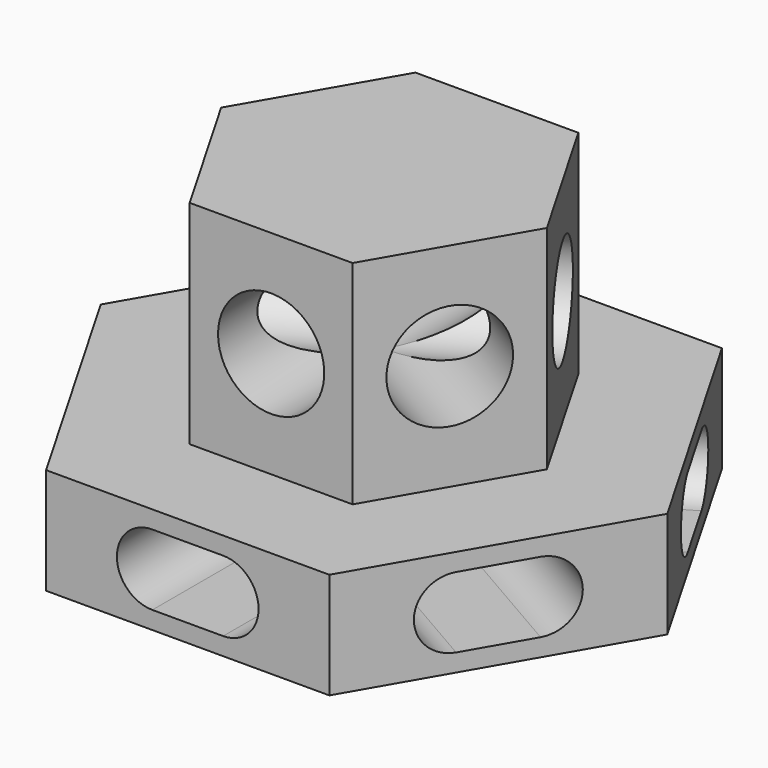
from build123d import *

# Parameters (mm, degrees)
F1_DEPTH  = 15
F4_DEPTH  = 80
F6_DEPTH  = 80
F7_DEPTH  = 80
F9_DEPTH  = 30
F11_D     = 15
F11_DEPTH = 80
F11_TIP   = 4.5064546427
F14_D     = 15
F14_DEPTH = 80
F14_TIP   = 4.5064546427
F15_D     = 15
F15_DEPTH = 80
F15_TIP   = 4.5064546427


with BuildPart() as f1:
    # F0 (on Top) → F1 (new body)
    with BuildSketch(Plane.XY):
        Polygon((-20, 0), (0, 0), (20, 0), (40, 34.6410161514), (20, 69.2820323028), (0, 69.2820323028), (-20, 69.2820323028), (-40, 34.6410161514), align=None)
    extrude(amount=-F1_DEPTH)

    # F3 (on face) → F4 (cut)
    with BuildSketch(Plane(origin=(-45, 25.9807621135, 0), x_dir=(-0.5, -0.8660254038, 0), z_dir=(-0.8660254038, 0.5, 0))):
        with BuildLine():
            ThreePointArc((-25, -12.5), (-20, -7.5), (-25, -2.5))
            Line((-25, -2.5), (-35, -2.5))
            ThreePointArc((-35, -2.5), (-40, -7.5), (-35, -12.5))
            Line((-35, -12.5), (-25, -12.5))
        make_face()
    extrude(amount=-F4_DEPTH, mode=Mode.SUBTRACT)

    # F5 (on face) → F6 (cut)
    with BuildSketch(Plane.XZ):
        with BuildLine():
            ThreePointArc((5, -12.5), (10, -7.5), (5, -2.5))
            Line((5, -2.5), (-5, -2.5))
            ThreePointArc((-5, -2.5), (-10, -7.5), (-5, -12.5))
            Line((-5, -12.5), (5, -12.5))
        make_face()
    extrude(amount=-F6_DEPTH, mode=Mode.SUBTRACT)

    # F2 (on face) → F7 (cut)
    with BuildSketch(Plane(origin=(-15, -8.6602540378, 0), x_dir=(0.5, -0.8660254038, 0), z_dir=(-0.8660254038, -0.5, 0))):
        with BuildLine():
            ThreePointArc((-35, -2.5), (-40, -7.5), (-35, -12.5))
            Line((-35, -12.5), (-25, -12.5))
            ThreePointArc((-25, -12.5), (-20, -7.5), (-25, -2.5))
            Line((-25, -2.5), (-35, -2.5))
        make_face()
    extrude(amount=-F7_DEPTH, mode=Mode.SUBTRACT)

    # F8 (on face) → F9 (join)
    with BuildSketch(Plane.XY):
        Polygon((11.5, 54.5596004384), (-11.5, 54.5596004384), (-23, 34.6410161514), (-11.5, 14.7224318643), (11.5, 14.7224318643), (23, 34.6410161514), align=None)
    extrude(amount=F9_DEPTH)

    # F11
    with Locations(Plane.XZ.offset(-14.7224318643)):
        with Locations((0, 15)):
            Hole(F11_D / 2, depth=F11_DEPTH)
            with Locations((0, 0, -(F11_DEPTH + F11_TIP / 2))):  # 118° drill point
                Cone(0, F11_D / 2, F11_TIP, mode=Mode.SUBTRACT)

    # F14
    with Locations(Plane(origin=(-2.25, -1.2990381057, 0), x_dir=(0.5, -0.8660254038, 0), z_dir=(-0.8660254038, -0.5, 0))):
        with Locations((-30, 15)):
            Hole(F14_D / 2, depth=F14_DEPTH)
            with Locations((0, 0, -(F14_DEPTH + F14_TIP / 2))):  # 118° drill point
                Cone(0, F14_D / 2, F14_TIP, mode=Mode.SUBTRACT)

    # F15
    with Locations(Plane(origin=(-32.25, 18.6195461814, 0), x_dir=(-0.5, -0.8660254038, 0), z_dir=(-0.8660254038, 0.5, 0))):
        with Locations((-30, 15)):
            Hole(F15_D / 2, depth=F15_DEPTH)
            with Locations((0, 0, -(F15_DEPTH + F15_TIP / 2))):  # 118° drill point
                Cone(0, F15_D / 2, F15_TIP, mode=Mode.SUBTRACT)


solid = f1.part
